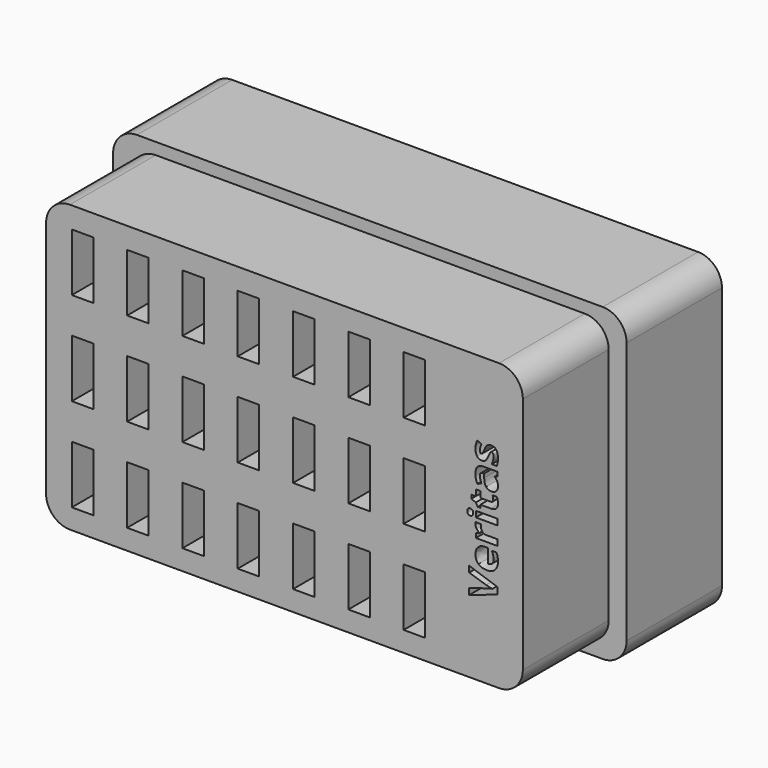
from build123d import *

# Parameters (mm, degrees)
F0_W     = 100
F0_H     = 60
F0_W_2   = 4.5
F0_H_2   = 12.12
F0_W_3   = 4.5494791667
F0_H_3   = 1.2408854167
F1_DEPTH = 35
F2_W     = 107.6972452709
F2_H     = 65
F3_DEPTH = 12.5
F4_R     = 5


with BuildPart() as f1:
    # F0 (on Front) → F1 (new body)
    with BuildSketch(Plane.XZ):
        Rectangle(F0_W, F0_H)
        with Locations((-42.34996894, -19.7010064)):
            Rectangle(F0_W_2, F0_H_2, mode=Mode.SUBTRACT)
        with Locations((-30.74996894, -19.7010064)):
            Rectangle(F0_W_2, F0_H_2, mode=Mode.SUBTRACT)
        with Locations((-19.14996894, -19.7010064)):
            Rectangle(F0_W_2, F0_H_2, mode=Mode.SUBTRACT)
        with Locations((-7.54996894, -19.7010064)):
            Rectangle(F0_W_2, F0_H_2, mode=Mode.SUBTRACT)
        with Locations((-42.34996894, -0.1010064)):
            Rectangle(F0_W_2, F0_H_2, mode=Mode.SUBTRACT)
        with Locations((-30.74996894, -0.1010064)):
            Rectangle(F0_W_2, F0_H_2, mode=Mode.SUBTRACT)
        with Locations((-19.14996894, -0.1010064)):
            Rectangle(F0_W_2, F0_H_2, mode=Mode.SUBTRACT)
        with Locations((-7.54996894, -0.1010064)):
            Rectangle(F0_W_2, F0_H_2, mode=Mode.SUBTRACT)
        with Locations((4.05003106, -19.7010064)):
            Rectangle(F0_W_2, F0_H_2, mode=Mode.SUBTRACT)
        with Locations((15.65003106, -19.7010064)):
            Rectangle(F0_W_2, F0_H_2, mode=Mode.SUBTRACT)
        with Locations((27.25003106, -19.7010064)):
            Rectangle(F0_W_2, F0_H_2, mode=Mode.SUBTRACT)
        with Locations((4.05003106, -0.1010064)):
            Rectangle(F0_W_2, F0_H_2, mode=Mode.SUBTRACT)
        with Locations((15.65003106, -0.1010064)):
            Rectangle(F0_W_2, F0_H_2, mode=Mode.SUBTRACT)
        with BuildLine():
            Line((42.2880346676, -11.8253802061), (38.7476700842, -10.6990781228))
            Line((38.7476700842, -10.6990781228), (38.7476700842, -9.4256406228))
            Line((38.7476700842, -9.4256406228), (44.6968888342, -11.4477760394))
            Line((44.6968888342, -11.4477760394), (44.6968888342, -12.8227760394))
            Line((44.6968888342, -12.8227760394), (38.7476700842, -14.8410052061))
            Line((38.7476700842, -14.8410052061), (38.7476700842, -13.5675677061))
            Line((38.7476700842, -13.5675677061), (42.2880346676, -12.4477760394))
            add(Edge.make_bspline(
                [(42.2880346676, -12.4477760394), (42.6018367509, -12.3553281228), (43.0185034176, -12.2550677061)],
                knots=[0, 0, 0, 1, 1, 1], degree=2))
            add(Edge.make_bspline(
                [(43.0185034176, -12.2550677061), (43.4351700842, -12.1548072894), (43.5979305009, -12.1313697894)],
                knots=[0, 0, 0, 1, 1, 1], degree=2))
            add(Edge.make_bspline(
                [(43.5979305009, -12.1313697894), (43.2242325842, -12.0857968728), (42.2880346676, -11.8253802061)],
                knots=[0, 0, 0, 1, 1, 1], degree=2))
        make_face(mode=Mode.SUBTRACT)
        with Locations((27.25003106, -0.1010064)):
            Rectangle(F0_W_2, F0_H_2, mode=Mode.SUBTRACT)
        with BuildLine():
            add(Edge.make_bspline(
                [(44.6994930009, -5.8123593728), (44.7789200842, -6.1821510394), (44.7789200842, -6.7160052061)],
                knots=[0, 0, 0, 1, 1, 1], degree=2))
            add(Edge.make_bspline(
                [(44.7789200842, -6.7160052061), (44.7789200842, -7.8136614561), (44.1721492509, -8.4321510394)],
                knots=[0, 0, 0, 1, 1, 1], degree=2))
            add(Edge.make_bspline(
                [(44.1721492509, -8.4321510394), (43.5653784176, -9.0506406228), (42.4547013342, -9.0506406228)],
                knots=[0, 0, 0, 1, 1, 1], degree=2))
            add(Edge.make_bspline(
                [(42.4547013342, -9.0506406228), (41.3114721676, -9.0506406228), (40.6871232092, -8.4790260394)],
                knots=[0, 0, 0, 1, 1, 1], degree=2))
            add(Edge.make_bspline(
                [(40.6871232092, -8.4790260394), (40.0627742509, -7.9074114561), (40.0627742509, -6.8982968728)],
                knots=[0, 0, 0, 1, 1, 1], degree=2))
            add(Edge.make_bspline(
                [(40.0627742509, -6.8982968728), (40.0627742509, -5.9347552061), (40.6116023759, -5.3976458311)],
                knots=[0, 0, 0, 1, 1, 1], degree=2))
            add(Edge.make_bspline(
                [(40.6116023759, -5.3976458311), (41.1604305009, -4.8605364561), (42.1291805009, -4.8605364561)],
                knots=[0, 0, 0, 1, 1, 1], degree=2))
            Line((42.1291805009, -4.8605364561), (42.7320450842, -4.8605364561))
            Line((42.7320450842, -4.8605364561), (42.7320450842, -7.7941302061))
            add(Edge.make_bspline(
                [(42.7320450842, -7.7941302061), (43.2606909176, -7.7732968728), (43.5575659176, -7.4803281228)],
                knots=[0, 0, 0, 1, 1, 1], degree=2))
            add(Edge.make_bspline(
                [(43.5575659176, -7.4803281228), (43.8544409176, -7.1873593728), (43.8544409176, -6.6587135394)],
                knots=[0, 0, 0, 1, 1, 1], degree=2))
            add(Edge.make_bspline(
                [(43.8544409176, -6.6587135394), (43.8544409176, -6.2472552061), (43.7691544592, -5.8813697894)],
                knots=[0, 0, 0, 1, 1, 1], degree=2))
            add(Edge.make_bspline(
                [(43.7691544592, -5.8813697894), (43.6838680009, -5.5154843728), (43.4963680009, -5.1170468728)],
                knots=[0, 0, 0, 1, 1, 1], degree=2))
            Line((43.4963680009, -5.1170468728), (44.4573055009, -5.1170468728))
            add(Edge.make_bspline(
                [(44.4573055009, -5.1170468728), (44.6200659176, -5.4425677061), (44.6994930009, -5.8123593728)],
                knots=[0, 0, 0, 1, 1, 1], degree=2))
        make_face(mode=Mode.SUBTRACT)
        with BuildLine():
            add(Edge.make_bspline(
                [(40.2964982092, -2.0955624978), (40.0627742509, -1.7355364561), (40.0627742509, -1.3123593728)],
                knots=[0, 0, 0, 1, 1, 1], degree=2))
            add(Edge.make_bspline(
                [(40.0627742509, -1.3123593728), (40.0627742509, -1.0597552061), (40.0992325842, -0.8930885394)],
                knots=[0, 0, 0, 1, 1, 1], degree=2))
            Line((40.0992325842, -0.8930885394), (41.2619930009, -0.9868385394))
            add(Edge.make_bspline(
                [(41.2619930009, -0.9868385394), (41.2216284176, -1.1378802061), (41.2216284176, -1.3527239561)],
                knots=[0, 0, 0, 1, 1, 1], degree=2))
            add(Edge.make_bspline(
                [(41.2216284176, -1.3527239561), (41.2216284176, -1.9464739561), (41.5269669592, -2.2785052061)],
                knots=[0, 0, 0, 1, 1, 1], degree=2))
            add(Edge.make_bspline(
                [(41.5269669592, -2.2785052061), (41.8323055009, -2.6105364561), (42.3817846676, -2.6105364561)],
                knots=[0, 0, 0, 1, 1, 1], degree=2))
            Line((42.3817846676, -2.6105364561), (44.6968888342, -2.6105364561))
            Line((44.6968888342, -2.6105364561), (44.6968888342, -3.8514218728))
            Line((44.6968888342, -3.8514218728), (40.1474096676, -3.8514218728))
            Line((40.1474096676, -3.8514218728), (40.1474096676, -2.9113177061))
            Line((40.1474096676, -2.9113177061), (40.9130346676, -2.7277239561))
            Line((40.9130346676, -2.7277239561), (40.9130346676, -2.6678281228))
            add(Edge.make_bspline(
                [(40.9130346676, -2.6678281228), (40.5302221676, -2.4555885394), (40.2964982092, -2.0955624978)],
                knots=[0, 0, 0, 1, 1, 1], degree=2))
        make_face(mode=Mode.SUBTRACT)
        with Locations((-42.34996894, 19.4989936)):
            Rectangle(F0_W_2, F0_H_2, mode=Mode.SUBTRACT)
        with Locations((-30.74996894, 19.4989936)):
            Rectangle(F0_W_2, F0_H_2, mode=Mode.SUBTRACT)
        with Locations((-19.14996894, 19.4989936)):
            Rectangle(F0_W_2, F0_H_2, mode=Mode.SUBTRACT)
        with Locations((-7.54996894, 19.4989936)):
            Rectangle(F0_W_2, F0_H_2, mode=Mode.SUBTRACT)
        with BuildLine():
            add(Edge.make_bspline(
                [(39.5823055009, 0.5548281272), (39.5823055009, -0.1209531228), (38.9716284176, -0.1209531228)],
                knots=[0, 0, 0, 1, 1, 1], degree=2))
            add(Edge.make_bspline(
                [(38.9716284176, -0.1209531228), (38.3648575842, -0.1209531228), (38.3648575842, 0.5548281272)],
                knots=[0, 0, 0, 1, 1, 1], degree=2))
            add(Edge.make_bspline(
                [(38.3648575842, 0.5548281272), (38.3648575842, 1.2306093772), (38.9716284176, 1.2306093772)],
                knots=[0, 0, 0, 1, 1, 1], degree=2))
            add(Edge.make_bspline(
                [(38.9716284176, 1.2306093772), (39.2606909176, 1.2306093772), (39.4214982092, 1.0619895856)],
                knots=[0, 0, 0, 1, 1, 1], degree=2))
            add(Edge.make_bspline(
                [(39.4214982092, 1.0619895856), (39.5823055009, 0.8933697939), (39.5823055009, 0.5548281272)],
                knots=[0, 0, 0, 1, 1, 1], degree=2))
        make_face(mode=Mode.SUBTRACT)
        with Locations((42.4221492509, 0.5528750022)):
            Rectangle(F0_W_3, F0_H_3, mode=Mode.SUBTRACT)
        with BuildLine():
            add(Edge.make_bspline(
                [(43.6630346676, 3.9988385439), (43.7893367509, 4.1472760439), (43.7893367509, 4.3920677106)],
                knots=[0, 0, 0, 1, 1, 1], degree=2))
            add(Edge.make_bspline(
                [(43.7893367509, 4.3920677106), (43.7893367509, 4.7175885439), (43.6474096676, 5.1733177106)],
                knots=[0, 0, 0, 1, 1, 1], degree=2))
            Line((43.6474096676, 5.1733177106), (44.5705867509, 5.1733177106))
            add(Edge.make_bspline(
                [(44.5705867509, 5.1733177106), (44.7789200842, 4.7097760439), (44.7789200842, 4.0339947939)],
                knots=[0, 0, 0, 1, 1, 1], degree=2))
            add(Edge.make_bspline(
                [(44.7789200842, 4.0339947939), (44.7789200842, 3.2892031272), (44.4019669592, 2.9493593772)],
                knots=[0, 0, 0, 1, 1, 1], degree=2))
            add(Edge.make_bspline(
                [(44.4019669592, 2.9493593772), (44.0250138342, 2.6095156272), (43.2724096676, 2.6095156272)],
                knots=[0, 0, 0, 1, 1, 1], degree=2))
            Line((43.2724096676, 2.6095156272), (41.0797013342, 2.6095156272))
            Line((41.0797013342, 2.6095156272), (41.0797013342, 2.0157656272))
            Line((41.0797013342, 2.0157656272), (40.5549617509, 2.0157656272))
            Line((40.5549617509, 2.0157656272), (40.1395971676, 2.6993593772))
            Line((40.1395971676, 2.6993593772), (39.1786596676, 3.0574322939))
            Line((39.1786596676, 3.0574322939), (39.1786596676, 3.8504010439))
            Line((39.1786596676, 3.8504010439), (40.1474096676, 3.8504010439))
            Line((40.1474096676, 3.8504010439), (40.1474096676, 5.1238385439))
            Line((40.1474096676, 5.1238385439), (41.0797013342, 5.1238385439))
            Line((41.0797013342, 5.1238385439), (41.0797013342, 3.8504010439))
            Line((41.0797013342, 3.8504010439), (43.2724096676, 3.8504010439))
            add(Edge.make_bspline(
                [(43.2724096676, 3.8504010439), (43.5367325842, 3.8504010439), (43.6630346676, 3.9988385439)],
                knots=[0, 0, 0, 1, 1, 1], degree=2))
        make_face(mode=Mode.SUBTRACT)
        with BuildLine():
            Line((44.6968888342, 9.8477968772), (44.6968888342, 8.9819114606))
            Line((44.6968888342, 8.9819114606), (44.0783992509, 8.7410260439))
            Line((44.0783992509, 8.7410260439), (44.0783992509, 8.7084739606))
            add(Edge.make_bspline(
                [(44.0783992509, 8.7084739606), (44.4729305009, 8.3959739606), (44.6259252926, 8.0639427106)],
                knots=[0, 0, 0, 1, 1, 1], degree=2))
            add(Edge.make_bspline(
                [(44.6259252926, 8.0639427106), (44.7789200842, 7.7319114606), (44.7789200842, 7.1993593772)],
                knots=[0, 0, 0, 1, 1, 1], degree=2))
            add(Edge.make_bspline(
                [(44.7789200842, 7.1993593772), (44.7789200842, 6.5444114606), (44.4039200842, 6.1681093772)],
                knots=[0, 0, 0, 1, 1, 1], degree=2))
            add(Edge.make_bspline(
                [(44.4039200842, 6.1681093772), (44.0289200842, 5.7918072939), (43.3375138342, 5.7918072939)],
                knots=[0, 0, 0, 1, 1, 1], degree=2))
            add(Edge.make_bspline(
                [(43.3375138342, 5.7918072939), (42.6135555009, 5.7918072939), (42.2698055009, 6.2983177106)],
                knots=[0, 0, 0, 1, 1, 1], degree=2))
            add(Edge.make_bspline(
                [(42.2698055009, 6.2983177106), (41.9260555009, 6.8048281272), (41.8895971676, 7.8256614606)],
                knots=[0, 0, 0, 1, 1, 1], degree=2))
            Line((41.8895971676, 7.8256614606), (41.8648575842, 8.6160260439))
            Line((41.8648575842, 8.6160260439), (41.6656388342, 8.6160260439))
            add(Edge.make_bspline(
                [(41.6656388342, 8.6160260439), (40.9742325842, 8.6160260439), (40.9742325842, 7.9076927106)],
                knots=[0, 0, 0, 1, 1, 1], degree=2))
            add(Edge.make_bspline(
                [(40.9742325842, 7.9076927106), (40.9742325842, 7.3621197939), (41.3036596676, 6.6251406272)],
                knots=[0, 0, 0, 1, 1, 1], degree=2))
            Line((41.3036596676, 6.6251406272), (40.4651180009, 6.2149843772))
            add(Edge.make_bspline(
                [(40.4651180009, 6.2149843772), (40.0536596676, 7.0001406272), (40.0536596676, 7.9558697939)],
                knots=[0, 0, 0, 1, 1, 1], degree=2))
            add(Edge.make_bspline(
                [(40.0536596676, 7.9558697939), (40.0536596676, 8.8712343772), (40.4527482092, 9.3595156272)],
                knots=[0, 0, 0, 1, 1, 1], degree=2))
            add(Edge.make_bspline(
                [(40.4527482092, 9.3595156272), (40.8518367509, 9.8477968772), (41.6656388342, 9.8477968772)],
                knots=[0, 0, 0, 1, 1, 1], degree=2))
            Line((41.6656388342, 9.8477968772), (44.6968888342, 9.8477968772))
        make_face(mode=Mode.SUBTRACT)
        with BuildLine():
            add(Edge.make_bspline(
                [(42.7639461259, 14.1824322939), (43.0080867509, 14.3009218772), (43.3453263342, 14.3009218772)],
                knots=[0, 0, 0, 1, 1, 1], degree=2))
            add(Edge.make_bspline(
                [(43.3453263342, 14.3009218772), (44.0458471676, 14.3009218772), (44.4123836259, 13.8145937522)],
                knots=[0, 0, 0, 1, 1, 1], degree=2))
            add(Edge.make_bspline(
                [(44.4123836259, 13.8145937522), (44.7789200842, 13.3282656272), (44.7789200842, 12.3595156272)],
                knots=[0, 0, 0, 1, 1, 1], degree=2))
            add(Edge.make_bspline(
                [(44.7789200842, 12.3595156272), (44.7789200842, 11.8634218772), (44.7112117509, 11.5131614606)],
                knots=[0, 0, 0, 1, 1, 1], degree=2))
            add(Edge.make_bspline(
                [(44.7112117509, 11.5131614606), (44.6435034176, 11.1629010439), (44.5132950842, 10.8582135439)],
                knots=[0, 0, 0, 1, 1, 1], degree=2))
            Line((44.5132950842, 10.8582135439), (43.4885555009, 10.8582135439))
            add(Edge.make_bspline(
                [(43.4885555009, 10.8582135439), (43.6513159176, 11.2032656272), (43.7613419592, 11.6368593772)],
                knots=[0, 0, 0, 1, 1, 1], degree=2))
            add(Edge.make_bspline(
                [(43.7613419592, 11.6368593772), (43.8713680009, 12.0704531272), (43.8713680009, 12.3998802106)],
                knots=[0, 0, 0, 1, 1, 1], degree=2))
            add(Edge.make_bspline(
                [(43.8713680009, 12.3998802106), (43.8713680009, 13.0756614606), (43.4807430009, 13.0756614606)],
                knots=[0, 0, 0, 1, 1, 1], degree=2))
            add(Edge.make_bspline(
                [(43.4807430009, 13.0756614606), (43.3336075842, 13.0756614606), (43.2418107092, 12.9858177106)],
                knots=[0, 0, 0, 1, 1, 1], degree=2))
            add(Edge.make_bspline(
                [(43.2418107092, 12.9858177106), (43.1500138342, 12.8959739606), (43.0341284176, 12.6765729189)],
                knots=[0, 0, 0, 1, 1, 1], degree=2))
            add(Edge.make_bspline(
                [(43.0341284176, 12.6765729189), (42.9182430009, 12.4571718772), (42.7645971676, 12.0912864606)],
                knots=[0, 0, 0, 1, 1, 1], degree=2))
            add(Edge.make_bspline(
                [(42.7645971676, 12.0912864606), (42.5445450842, 11.5665468772), (42.3570450842, 11.3198020856)],
                knots=[0, 0, 0, 1, 1, 1], degree=2))
            add(Edge.make_bspline(
                [(42.3570450842, 11.3198020856), (42.1695450842, 11.0730572939), (41.9273575842, 10.9617291689)],
                knots=[0, 0, 0, 1, 1, 1], degree=2))
            add(Edge.make_bspline(
                [(41.9273575842, 10.9617291689), (41.6851700842, 10.8504010439), (41.3323055009, 10.8504010439)],
                knots=[0, 0, 0, 1, 1, 1], degree=2))
            add(Edge.make_bspline(
                [(41.3323055009, 10.8504010439), (40.7255346676, 10.8504010439), (40.3941544592, 11.3198020856)],
                knots=[0, 0, 0, 1, 1, 1], degree=2))
            add(Edge.make_bspline(
                [(40.3941544592, 11.3198020856), (40.0627742509, 11.7892031272), (40.0627742509, 12.6524843772)],
                knots=[0, 0, 0, 1, 1, 1], degree=2))
            add(Edge.make_bspline(
                [(40.0627742509, 12.6524843772), (40.0627742509, 13.4740989606), (40.4208471676, 14.2514427106)],
                knots=[0, 0, 0, 1, 1, 1], degree=2))
            Line((40.4208471676, 14.2514427106), (41.3153784176, 13.8777447939))
            add(Edge.make_bspline(
                [(41.3153784176, 13.8777447939), (41.1695450842, 13.5352968772), (41.0757950842, 13.2384218772)],
                knots=[0, 0, 0, 1, 1, 1], degree=2))
            add(Edge.make_bspline(
                [(41.0757950842, 13.2384218772), (40.9820450842, 12.9415468772), (40.9820450842, 12.6316510439)],
                knots=[0, 0, 0, 1, 1, 1], degree=2))
            add(Edge.make_bspline(
                [(40.9820450842, 12.6316510439), (40.9820450842, 12.0821718772), (41.2789200842, 12.0821718772)],
                knots=[0, 0, 0, 1, 1, 1], degree=2))
            add(Edge.make_bspline(
                [(41.2789200842, 12.0821718772), (41.4455867509, 12.0821718772), (41.5679825842, 12.2592552106)],
                knots=[0, 0, 0, 1, 1, 1], degree=2))
            add(Edge.make_bspline(
                [(41.5679825842, 12.2592552106), (41.6903784176, 12.4363385439), (41.9299617509, 13.0352968772)],
                knots=[0, 0, 0, 1, 1, 1], degree=2))
            add(Edge.make_bspline(
                [(41.9299617509, 13.0352968772), (42.1461075842, 13.5678489606), (42.3329565426, 13.8158958356)],
                knots=[0, 0, 0, 1, 1, 1], degree=2))
            add(Edge.make_bspline(
                [(42.3329565426, 13.8158958356), (42.5198055009, 14.0639427106), (42.7639461259, 14.1824322939)],
                knots=[0, 0, 0, 1, 1, 1], degree=2))
        make_face(mode=Mode.SUBTRACT)
        with Locations((4.05003106, 19.4989936)):
            Rectangle(F0_W_2, F0_H_2, mode=Mode.SUBTRACT)
        with Locations((15.65003106, 19.4989936)):
            Rectangle(F0_W_2, F0_H_2, mode=Mode.SUBTRACT)
        with Locations((27.25003106, 19.4989936)):
            Rectangle(F0_W_2, F0_H_2, mode=Mode.SUBTRACT)
    extrude(amount=F1_DEPTH)

    # F2 (on Front) → F3 (join, symmetric)
    with BuildSketch(Plane.XZ):
        with Locations((-0.0942647457, -0.0484539196)):
            Rectangle(F2_W, F2_H)
    extrude(amount=F3_DEPTH, both=True)

    # F4
    f4_edges = [f1.edges().sort_by_distance(p)[0] for p in [
        (-50, -23.75, -30),
        (50, -23.75, -30),
        (50, -23.75, 30),
        (-50, -23.75, 30),
        (-53.942887, 0, -32.548454),
        (53.754358, 0, -32.548454),
        (53.754358, 0, 32.451546),
        (-53.942887, 0, 32.451546),
    ]]
    fillet(f4_edges, radius=F4_R)


solid = f1.part
